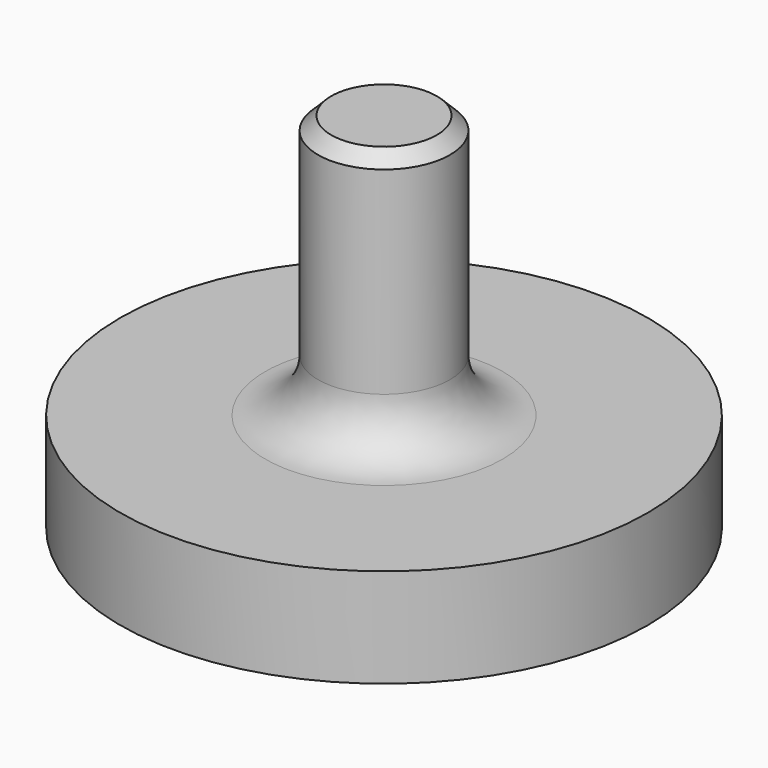
from build123d import *

# Parameters (mm, degrees)
F2_SIZE = 20


with BuildPart() as f1:
    # F0 (on Front) → F1 (revolve)
    with BuildSketch(Plane.XZ):
        with BuildLine():
            Line((100, 162.432451), (100, 482.432451))
            Line((100, 482.432451), (0, 482.432451))
            Line((0, 482.432451), (0, -217.567549))
            Line((0, -217.567549), (400, -67.567549))
            Line((400, -67.567549), (400, 82.432451))
            Line((400, 82.432451), (180, 82.432451))
            ThreePointArc((180, 82.432451), (123.431458, 105.863908), (100, 162.432451))
        make_face()
    revolve(axis=Axis((0, 0, 132.432451), (0, 0, -1)))

    # F2
    f2_edges = [f1.edges().sort_by_distance(p)[0] for p in [
        (-100, 0, 482.432451),
    ]]
    chamfer(f2_edges, length=F2_SIZE)


solid = f1.part
